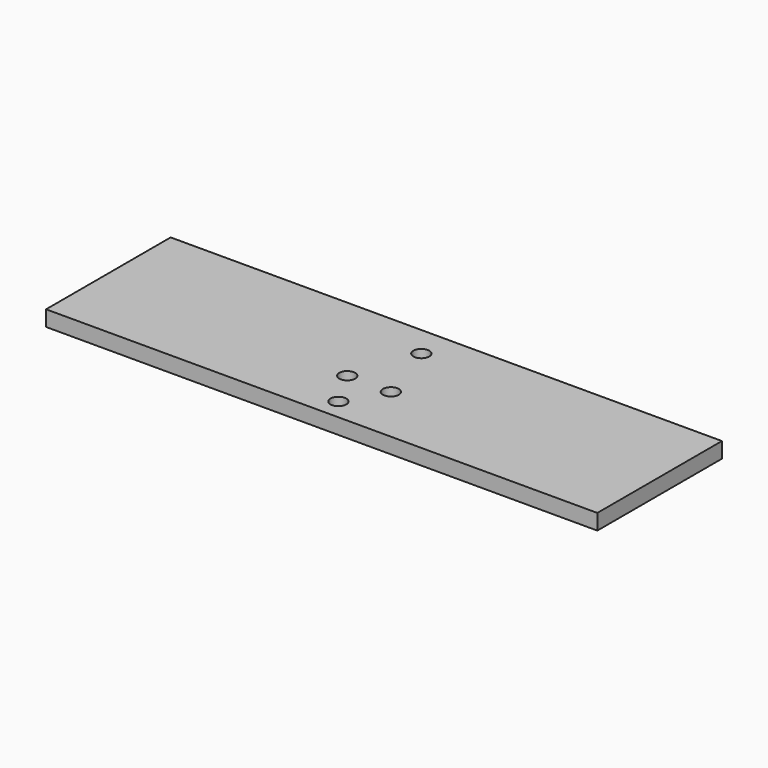
from build123d import *

# Parameters (mm, degrees)
F1_DEPTH = 5
F3_D     = 5.1
F4_R     = 2.1
F5_DEPTH = 25


with BuildPart() as f1:
    # F0 (on Top) → F1 (new body)
    with BuildSketch(Plane.XY):
        Polygon((84.6812899327, 58.5268347502), (-92.3187100673, 58.5268347502), (-92.3187100673, 8.5268347502), (-44.3187100673, 8.5268347502), (36.6812899327, 8.5268347502), (84.6812899327, 8.5268347502), align=None)
    extrude(amount=F1_DEPTH)

    # F3 (through all)
    with Locations(Plane.XY.offset(5)):
        with Locations((-10.8187100673, 27.5268347502), (-3.8187100673, 48.5268347502), (3.1812899327, 27.5268347502), (-3.8187100673, 15.2268347502)):
            Hole(F3_D / 2)

    # F4 (on face) → F5 (cut)
    with BuildSketch(Plane.XY.offset(5)):
        with Locations((-63.3187100673, -6.4731652498)):
            Circle(F4_R)
        with Locations((55.6812899327, -14.4731652498)):
            Circle(F4_R)
        with Locations((-83.3187100673, -14.4731652498)):
            Circle(F4_R)
        with Locations((-73.3187100673, -43.9731652498)):
            Circle(F4_R)
        with Locations((75.6812899327, -6.4731652498)):
            Circle(F4_R)
        with Locations((65.6812899327, -43.9731652498)):
            Circle(F4_R)
    extrude(amount=-F5_DEPTH, mode=Mode.SUBTRACT)


solid = f1.part
